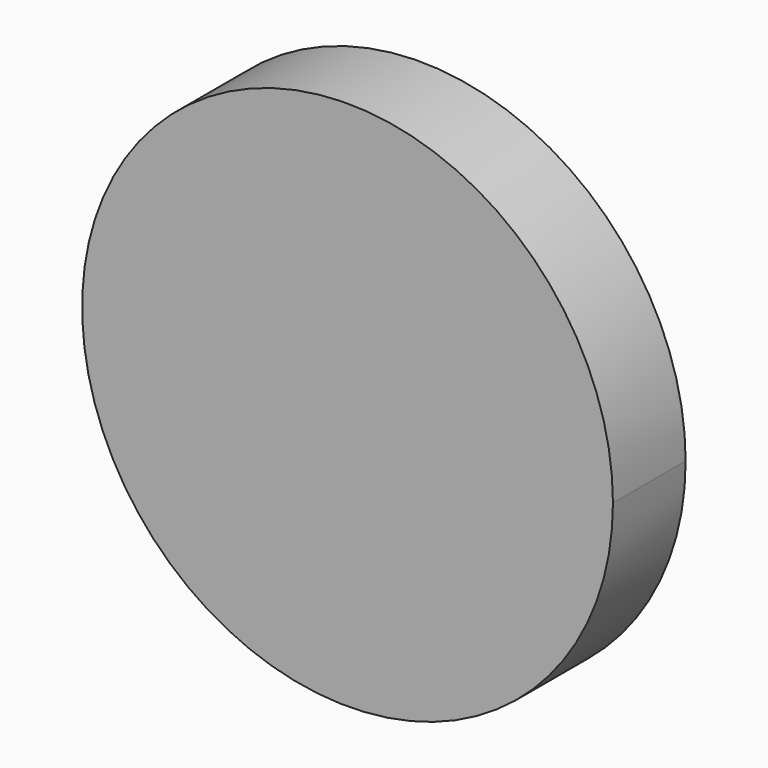
from build123d import *

# Parameters (mm, degrees)
F1_DEPTH = 25.4
F0_W     = 2.0122602582
F0_H     = 9.6141556278
F0_W_2   = 9.3905702233
F0_H_2   = 4.6952851117
F0_H_3   = 17.2160472721
F0_W_3   = 2.6830211282
F0_H_4   = 3.1301882118
F0_W_4   = 1.7886832356
F0_H_5   = 10.0613348186


with BuildPart() as f1:
    # F0 (on Front) → F1 (new body)
    with BuildSketch(Plane.XZ):
        with BuildLine():
            ThreePointArc((74.1845954161, 0), (-38.8508509686, 63.1978288873), (-33.4918178247, -66.1940506076))
            ThreePointArc((-33.4918178247, -66.1940506076), (38.8508509686, -63.1978288873), (74.1845954161, 0))
        make_face()
        with BuildLine():
            ThreePointArc((53.2162221936, 0), (27.8696069711, -45.3348796385), (-24.0253115762, -47.4842153586))
            ThreePointArc((-24.0253115762, -47.4842153586), (-27.8696069711, 45.3348796385), (53.2162221936, 0))
        make_face(mode=Mode.SUBTRACT)
        with BuildLine():
            ThreePointArc((53.2162221936, 0), (-27.8696069711, 45.3348796385), (-24.0253115762, -47.4842153586))
            ThreePointArc((-24.0253115762, -47.4842153586), (27.8696069711, -45.3348796385), (53.2162221936, 0))
        make_face()
        with BuildLine():
            ThreePointArc((40.3185295406, 0), (21.1150195491, -34.3473401263), (-18.2024426872, -35.9757543984))
            ThreePointArc((-18.2024426872, -35.9757543984), (-21.1150195491, 34.3473401263), (40.3185295406, 0))
        make_face(mode=Mode.SUBTRACT)
        with BuildLine():
            ThreePointArc((40.3185295406, 0), (-21.1150195491, 34.3473401263), (-18.2024426872, -35.9757543984))
            ThreePointArc((-18.2024426872, -35.9757543984), (21.1150195491, -34.3473401263), (40.3185295406, 0))
        make_face()
        with BuildLine():
            ThreePointArc((30.8835030596, 0), (16.1738480614, -26.3096446216), (-13.9428496234, -27.5569901406))
            ThreePointArc((-13.9428496234, -27.5569901406), (-16.1738480614, 26.3096446216), (30.8835030596, 0))
        make_face(mode=Mode.SUBTRACT)
        with BuildLine():
            ThreePointArc((30.8835030596, 0), (-16.1738480614, 26.3096446216), (-13.9428496234, -27.5569901406))
            ThreePointArc((-13.9428496234, -27.5569901406), (16.1738480614, -26.3096446216), (30.8835030596, 0))
        make_face()
        with BuildLine():
            ThreePointArc((23.2248742524, 0), (12.1629850953, -19.7852616261), (-10.4852395986, -20.723284841))
            ThreePointArc((-10.4852395986, -20.723284841), (-12.1629850953, 19.7852616261), (23.2248742524, 0))
        make_face(mode=Mode.SUBTRACT)
        with BuildLine():
            ThreePointArc((23.2248742524, 0), (-12.1629850953, 19.7852616261), (-10.4852395986, -20.723284841))
            ThreePointArc((-10.4852395986, -20.723284841), (12.1629850953, -19.7852616261), (23.2248742524, 0))
        make_face()
        with BuildLine():
            ThreePointArc((17.4618084215, 0), (9.1448381274, -14.8757080158), (-7.8834116876, -15.5809683111))
            ThreePointArc((-7.8834116876, -15.5809683111), (-9.1448381274, 14.8757080158), (17.4618084215, 0))
        make_face(mode=Mode.SUBTRACT)
        with BuildLine():
            ThreePointArc((17.4618084215, 0), (-9.1448381274, 14.8757080158), (-7.8834116876, -15.5809683111))
            ThreePointArc((-7.8834116876, -15.5809683111), (9.1448381274, -14.8757080158), (17.4618084215, 0))
        make_face()
        with BuildLine():
            ThreePointArc((13.1806981516, 0), (6.902798845, -11.2286317898), (-5.9506362314, -11.760983471))
            ThreePointArc((-5.9506362314, -11.760983471), (-6.902798845, 11.2286317898), (13.1806981516, 0))
        make_face(mode=Mode.SUBTRACT)
        with BuildLine():
            ThreePointArc((13.1806981516, 0), (-6.902798845, 11.2286317898), (-5.9506362314, -11.760983471))
            ThreePointArc((-5.9506362314, -11.760983471), (6.902798845, -11.2286317898), (13.1806981516, 0))
        make_face()
        with BuildLine():
            ThreePointArc((-4.1793532864, -8.2601763927), (-4.8480925259, 7.8862859948), (9.2572948495, 0))
            ThreePointArc((9.2572948495, 0), (4.8480925259, -7.8862859948), (-4.1793532864, -8.2601763927))
        make_face(mode=Mode.SUBTRACT)
        with BuildLine():
            ThreePointArc((-4.1793532864, -8.2601763927), (4.8480925259, -7.8862859948), (9.2572948495, 0))
            ThreePointArc((9.2572948495, 0), (-4.8480925259, 7.8862859948), (-4.1793532864, -8.2601763927))
        make_face()
        with BuildLine():
            ThreePointArc((6.7578094068, 0), (3.5390992519, -5.7569752877), (-3.0509207508, -6.0299146387))
            ThreePointArc((-3.0509207508, -6.0299146387), (-3.5390992519, 5.7569752877), (6.7578094068, 0))
        make_face(mode=Mode.SUBTRACT)
        with BuildLine():
            ThreePointArc((6.7578094068, 0), (-3.5390992519, 5.7569752877), (-3.0509207508, -6.0299146387))
            ThreePointArc((-3.0509207508, -6.0299146387), (3.5390992519, -5.7569752877), (6.7578094068, 0))
        make_face()
        with BuildLine():
            ThreePointArc((5.0579216156, 0), (2.648859346, -4.3088415188), (-2.2834793176, -4.5131245579))
            ThreePointArc((-2.2834793176, -4.5131245579), (-2.648859346, 4.3088415188), (5.0579216156, 0))
        make_face(mode=Mode.SUBTRACT)
        with BuildLine():
            ThreePointArc((5.0579216156, 0), (-2.648859346, 4.3088415188), (-2.2834793176, -4.5131245579))
            ThreePointArc((-2.2834793176, -4.5131245579), (2.648859346, -4.3088415188), (5.0579216156, 0))
        make_face()
        with BuildLine():
            ThreePointArc((2.9671045807, 0), (1.5538878015, -2.5276752745), (-1.3395466475, -2.6475128653))
            ThreePointArc((-1.3395466475, -2.6475128653), (-1.5538878015, 2.5276752745), (2.9671045807, 0))
        make_face(mode=Mode.SUBTRACT)
        with BuildLine():
            ThreePointArc((2.9671045807, 0), (-1.5538878015, 2.5276752745), (-1.3395466475, -2.6475128653))
            ThreePointArc((-1.3395466475, -2.6475128653), (1.5538878015, -2.5276752745), (2.9671045807, 0))
        make_face()
    extrude(amount=F1_DEPTH)


with BuildPart() as f1b:
    # F0 (on Front) → F1, piece 2 (new body)
    with BuildSketch(Plane.XZ):
        Polygon((81.161364913, -32.4920788407), (81.161364913, -71.3958665729), (103.0726954341, -71.3958665729), (103.0726954341, -32.4920788407), (100.3896817565, -32.4920788407), (95.9179773927, -32.4920788407), align=None)
        Polygon((81.161364913, -1.860929653), (81.161364913, -32.4920788407), (95.9179773927, -32.4920788407), (95.9179773927, -11.4750852808), (95.9179773927, -1.860929653), (84.5151394606, -1.860929653), align=None)
        Polygon((84.5151394606, 21.3919151574), (84.5151394606, -1.860929653), (95.9179773927, -1.860929653), (97.9302376509, -1.860929653), (97.9302376509, 16.2494592369), (97.9302376509, 21.3919151574), (87.8689140081, 21.3919151574), align=None)
        Polygon((87.8689140081, 39.5023003221), (87.8689140081, 21.3919151574), (97.9302376509, 21.3919151574), (97.9302376509, 39.5023003221), (95.9179773927, 39.5023003221), (92.8995758295, 39.5023003221), (90.1047661901, 39.5023003221), align=None)
        Polygon((97.9302376509, -11.4750852808), (100.3896817565, -11.4750852808), (100.3896817565, 16.2494592369), (97.9302376509, 16.2494592369), (97.9302376509, -1.860929653), align=None)
        with Locations((96.9241075218, -6.6680074669)):
            Rectangle(F0_W, F0_H)
        Polygon((95.9179773927, -11.4750852808), (95.9179773927, -32.4920788407), (100.3896817565, -32.4920788407), (100.3896817565, -11.4750852808), (97.9302376509, -11.4750852808), align=None)
    extrude(amount=F1_DEPTH)


with BuildPart() as f1c:
    # F0 (on Front) → F1, piece 3 (new body)
    with BuildSketch(Plane.XZ):
        Polygon((-104.4142097235, 19.3796493113), (-104.4142097235, 22.5098375231), (-109.5566675067, 22.5098375231), (-109.5566675067, -30.7033965364), (-87.1981605887, -30.7033965364), (-87.1981605887, 5.7409610599), (-95.0236395001, 5.7409610599), (-95.0236395001, 19.3796493113), align=None)
        with Locations((-99.7189246118, 42.073527351)):
            Rectangle(F0_W_2, F0_H_2)
        Polygon((-87.1981605887, 22.5098375231), (-92.340618372, 22.5098375231), (-92.340618372, 19.3796493113), (-95.0236395001, 19.3796493113), (-95.0236395001, 5.7409610599), (-87.1981605887, 5.7409610599), align=None)
        Polygon((-108.8859140873, 39.7258847952), (-104.4142097235, 39.7258847952), (-104.4142097235, 44.4211699069), (-95.0236395001, 44.4211699069), (-95.0236395001, 54.4825047255), (-108.8859140873, 54.4825047255), align=None)
        Polygon((-93.2349562645, 54.4825047255), (-93.2349562645, 44.4211699069), (-92.340618372, 44.4211699069), (-92.340618372, 22.5098375231), (-87.1981605887, 22.5098375231), (-87.1981605887, 5.7409610599), (-86.5273997188, 5.7409610599), (-86.5273997188, 59.4013724476), (-95.0236395001, 59.4013724476), (-95.0236395001, 54.4825047255), align=None)
        with Locations((-99.7189246118, 31.1178611591)):
            Rectangle(F0_W_2, F0_H_3)
        with Locations((-93.6821289361, 20.9447434172)):
            Rectangle(F0_W_3, F0_H_4)
        with Locations((-99.7189246118, 20.9447434172)):
            Rectangle(F0_W_2, F0_H_4)
        with Locations((-94.1292978823, 42.073527351)):
            Rectangle(F0_W_4, F0_H_2)
        with Locations((-94.1292978823, 49.4518373162)):
            Rectangle(F0_W_4, F0_H_5)
        Polygon((-93.2349562645, 44.4211699069), (-93.2349562645, 39.7258847952), (-95.0236395001, 39.7258847952), (-95.0236395001, 22.5098375231), (-92.340618372, 22.5098375231), (-92.340618372, 44.4211699069), align=None)
    extrude(amount=F1_DEPTH)


solid = f1.part
